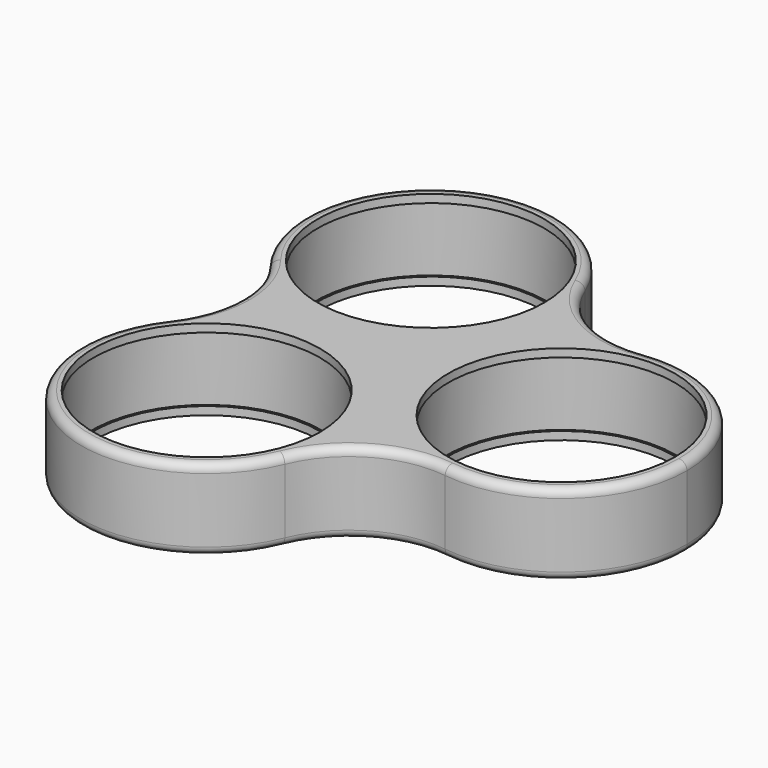
from build123d import *

# Parameters (mm, degrees)
F1_DEPTH      = 10
F2_R          = 14
F3_DEPTH      = 25
F3_DEPTH_BACK = 25
F5_START      = 1
F4_R          = 14.25
F5_DEPTH      = 8
F6_R          = 1
F7_R          = 1


with BuildPart() as f1:
    # F0 (on Top) → F1 (new body)
    with BuildSketch(Plane.XY):
        with BuildLine():
            ThreePointArc((17.9071800695, -15.3580631832), (30.1934118694, -11.6766585315), (35.5, 0))
            ThreePointArc((35.5, 0), (30.1934118694, 11.6766585315), (17.9071800695, 15.3580631832))
            ThreePointArc((17.9071800695, 15.3580631832), (4.5, 0), (17.9071800695, -15.3580631832))
        make_face()
        with BuildLine():
            ThreePointArc((17.9071800695, -15.3580631832), (30.1934118694, -11.6766585315), (35.5, 0))
            ThreePointArc((35.5, 0), (30.1934118694, 11.6766585315), (17.9071800695, 15.3580631832))
            ThreePointArc((17.9071800695, 15.3580631832), (4.5, 0), (17.9071800695, -15.3580631832))
        make_face()
        with BuildLine():
            ThreePointArc((5.5, 17.3205080757), (5.2089888633, 20.3099323942), (4.3468828701, 23.1871043555))
            ThreePointArc((4.3468828701, 23.1871043555), (-17.7499998668, 30.7439019112), (-22.2540630355, 7.8290414281))
            ThreePointArc((-22.2540630355, 7.8290414281), (-4.9844231164, 2.6544251452), (5.5, 17.3205080757))
        make_face()
        with BuildLine():
            ThreePointArc((-22.2540628496, -7.8290411881), (-17.7500000176, -30.7439018242), (4.3468828532, -23.1871043968))
            ThreePointArc((4.3468828532, -23.1871043968), (5.208988859, -20.3099324162), (5.5, -17.3205080757))
            ThreePointArc((5.5, -17.3205080757), (-4.9844229728, -2.6544251943), (-22.2540628496, -7.8290411881))
        make_face()
        with BuildLine():
            ThreePointArc((-22.2540628496, -7.8290411881), (-17.7500000176, -30.7439018242), (4.3468828532, -23.1871043968))
            ThreePointArc((4.3468828532, -23.1871043968), (5.208988859, -20.3099324162), (5.5, -17.3205080757))
            ThreePointArc((5.5, -17.3205080757), (-4.9844229728, -2.6544251943), (-22.2540628496, -7.8290411881))
        make_face()
        with BuildLine():
            ThreePointArc((17.9071800695, -15.3580631832), (4.5, 0), (17.9071800695, 15.3580631832))
            ThreePointArc((17.9071800695, 15.3580631832), (9.7883250707, 16.9538762501), (4.3468828701, 23.1871043555))
            ThreePointArc((4.3468828701, 23.1871043555), (5.2089888633, 20.3099323942), (5.5, 17.3205080757))
            ThreePointArc((5.5, 17.3205080757), (-4.9844231164, 2.6544251452), (-22.2540630355, 7.8290414281))
            ThreePointArc((-22.2540630355, 7.8290414281), (-20.264507037, 4.1371013379), (-19.5766500605, 0))
            ThreePointArc((-19.5766500605, 0), (-20.2645069879, -4.1371011943), (-22.2540628496, -7.8290411881))
            ThreePointArc((-22.2540628496, -7.8290411881), (-4.9844229728, -2.6544251943), (5.5, -17.3205080757))
            ThreePointArc((5.5, -17.3205080757), (5.208988859, -20.3099324162), (4.3468828532, -23.1871043968))
            ThreePointArc((4.3468828532, -23.1871043968), (9.7883250513, -16.9538762612), (17.9071800695, -15.3580631832))
        make_face()
        with BuildLine():
            ThreePointArc((5.5, 17.3205080757), (5.2089888633, 20.3099323942), (4.3468828701, 23.1871043555))
            ThreePointArc((4.3468828701, 23.1871043555), (-17.7499998668, 30.7439019112), (-22.2540630355, 7.8290414281))
            ThreePointArc((-22.2540630355, 7.8290414281), (-4.9844231164, 2.6544251452), (5.5, 17.3205080757))
        make_face()
    extrude(amount=F1_DEPTH)

    # F2 (on Top) → F3 (cut, two sides)
    with BuildSketch(Plane.XY) as f3_sk:
        with Locations((20, 0)):
            Circle(F2_R)
        with Locations((-10, 17.3205080757)):
            Circle(F2_R)
        with Locations((-10, -17.3205080757)):
            Circle(F2_R)
    extrude(amount=-F3_DEPTH, mode=Mode.SUBTRACT)
    extrude(f3_sk.sketch, amount=F3_DEPTH_BACK, mode=Mode.SUBTRACT)

    # F4 (on Top) → F5 (cut)
    with BuildSketch(Plane.XY.offset(F5_START)):
        with Locations((20, 0)):
            Circle(F4_R)
        with Locations((-10, 17.3205080757)):
            Circle(F4_R)
        with Locations((-10, -17.3205080757)):
            Circle(F4_R)
    extrude(amount=F5_DEPTH, mode=Mode.SUBTRACT)

    # F6
    f6_edges = [f1.edges().sort_by_distance(p)[0] for p in [
        (-17.75, -30.743902, 10),
        (9.788325, -16.953876, 10),
        (35.5, 0, 10),
        (9.788325, 16.953876, 10),
        (-19.57665, 0, 10),
        (-17.75, 30.743902, 10),
    ]]
    fillet(f6_edges, radius=F6_R)

    # F7
    f7_edges = [f1.edges().sort_by_distance(p)[0] for p in [
        (-17.75, 30.743902, 0),
        (9.788325, 16.953876, 0),
        (35.5, 0, 0),
        (9.788325, -16.953876, 0),
        (-17.75, -30.743902, 0),
        (-19.57665, 0, 0),
    ]]
    fillet(f7_edges, radius=F7_R)


solid = f1.part
